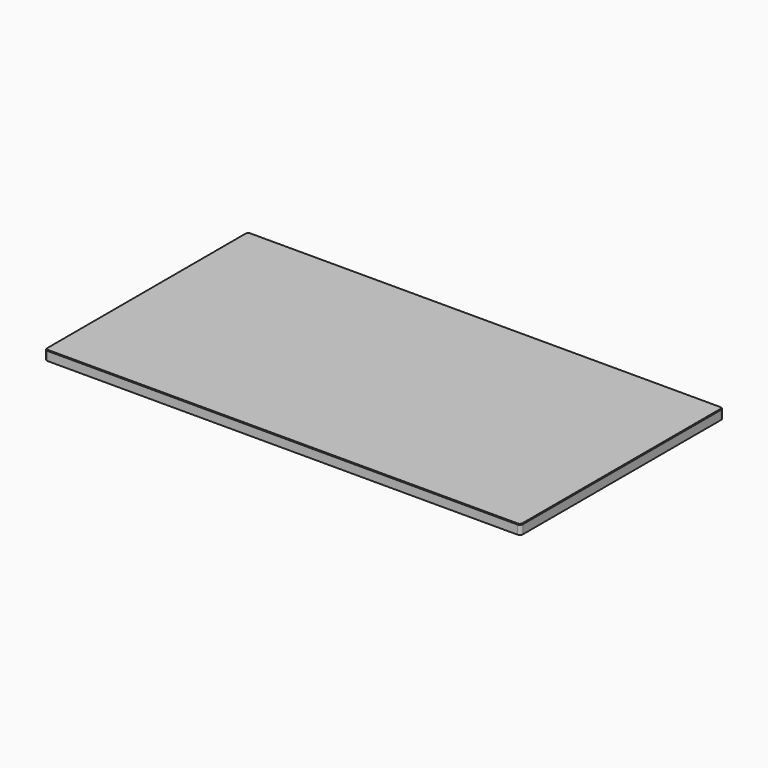
from build123d import *

# Parameters (mm, degrees)
F0_W     = 1500
F0_H     = 800
F1_DEPTH = 30
F2_R     = 10
F3_SIZE  = 2


with BuildPart() as f1:
    # F0 (on Top) → F1 (new body)
    with BuildSketch(Plane.XY):
        with Locations((-24.770537, 25.993737)):
            Rectangle(F0_W, F0_H)
    extrude(amount=F1_DEPTH)

    # F2
    f2_edges = [f1.edges().sort_by_distance(p)[0] for p in [
        (725.229463, -374.006263, 15),
        (725.229463, 425.993737, 15),
        (-774.770537, -374.006263, 15),
        (-774.770537, 425.993737, 15),
    ]]
    fillet(f2_edges, radius=F2_R)

    # F3
    f3_edges = [f1.edges().sort_by_distance(p)[0] for p in [
        (725.229463, 25.993737, 30),
        (722.30053, -371.07733, 30),
        (722.30053, 423.064805, 30),
        (-24.770537, -374.006263, 30),
        (-24.770537, 425.993737, 30),
        (-771.841605, -371.07733, 30),
        (-771.841605, 423.064805, 30),
        (-774.770537, 25.993737, 30),
    ]]
    chamfer(f3_edges, length=F3_SIZE)


solid = f1.part
